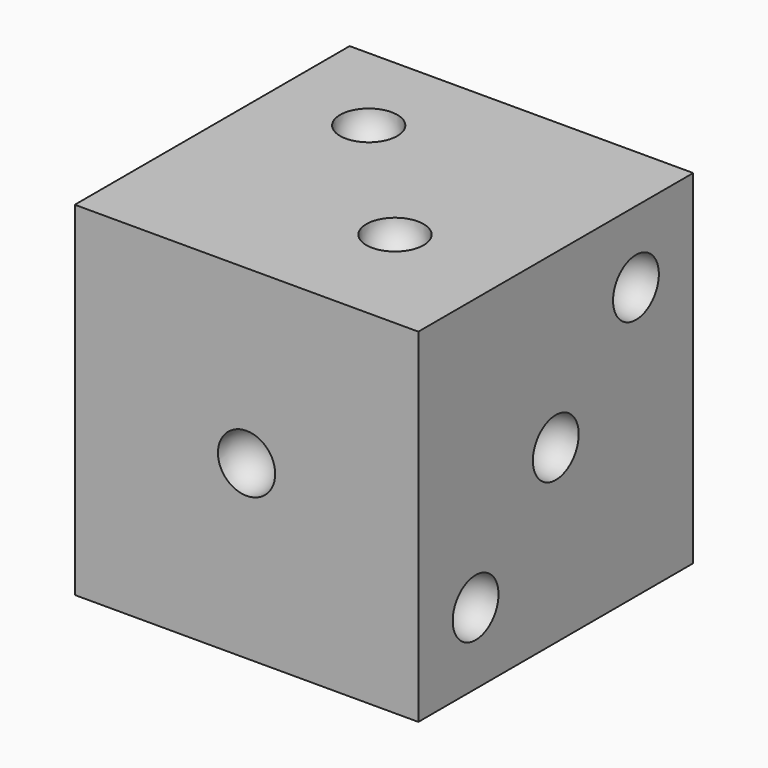
from build123d import *

# Parameters (mm, degrees)
F0_W     = 76.2
F0_H     = 76.2
F1_DEPTH = 76.2


with BuildPart() as f1:
    # F0 (on Front) → F1 (new body)
    with BuildSketch(Plane.XZ):
        with Locations((38.1, 38.1)):
            Rectangle(F0_W, F0_H)
    extrude(amount=F1_DEPTH)

    # F2 (on face) → F3 (revolve, cut)
    with BuildSketch(Plane.XZ.offset(76.2)):
        with BuildLine():
            Line((38.1, 44.45), (38.1, 31.75))
            ThreePointArc((38.1, 31.75), (44.45, 38.1), (38.1, 44.45))
        make_face()
    revolve(axis=Axis((38.1, -76.2, 38.1), (0, 0, 1)), mode=Mode.SUBTRACT)

    # F4 (on face) → F5 (revolve, cut)
    with BuildSketch(Plane.YZ.offset(76.2)):
        with BuildLine():
            ThreePointArc((-42.590128, 33.609872), (-33.609872, 33.609872), (-33.609872, 42.590128))
            Line((-33.609872, 42.590128), (-42.590128, 33.609872))
        make_face()
        with BuildLine():
            ThreePointArc((-20.365128, 55.834872), (-11.384872, 55.834872), (-11.384872, 64.815128))
            Line((-11.384872, 64.815128), (-20.365128, 55.834872))
        make_face()
        with BuildLine():
            Line((-55.834872, 20.365128), (-64.815128, 11.384872))
            ThreePointArc((-64.815128, 11.384872), (-55.834872, 11.384872), (-55.834872, 20.365128))
        make_face()
    revolve(axis=Axis((76.2, -38.1, 38.1), (0, -0.707107, -0.707107)), mode=Mode.SUBTRACT)

    # F6 (on face) → F7 (revolve, cut)
    with BuildSketch(Plane(origin=(0, 0, 0), x_dir=(-1, 0, 0), z_dir=(0, 1, 0))):
        with BuildLine():
            ThreePointArc((-55.834872, 55.834872), (-55.834872, 64.815128), (-64.815128, 64.815128))
            Line((-64.815128, 64.815128), (-55.834872, 55.834872))
        make_face()
        with BuildLine():
            Line((-33.609872, 42.590128), (-38.1, 38.1))
            Line((-38.1, 38.1), (-33.609872, 33.609872))
            ThreePointArc((-33.609872, 33.609872), (-31.75, 38.1), (-33.609872, 42.590128))
        make_face()
        with BuildLine():
            ThreePointArc((-33.609872, 42.590128), (-38.1, 44.45), (-42.590128, 42.590128))
            Line((-42.590128, 42.590128), (-38.1, 38.1))
            Line((-38.1, 38.1), (-33.609872, 42.590128))
        make_face()
        with BuildLine():
            Line((-20.365128, 20.365128), (-11.384872, 11.384872))
            ThreePointArc((-11.384872, 11.384872), (-11.384872, 20.365128), (-20.365128, 20.365128))
        make_face()
    revolve(axis=Axis((38.1, 0, 38.1), (-0.707107, 0, -0.707107)), mode=Mode.SUBTRACT)

    # F8 (on face) → F9 (revolve, cut)
    with BuildSketch(Plane(origin=(0, 0, 0), x_dir=(-1, 0, 0), z_dir=(0, 1, 0))):
        with BuildLine():
            ThreePointArc((-42.590128, 33.609872), (-33.609872, 33.609872), (-33.609872, 42.590128))
            Line((-33.609872, 42.590128), (-42.590128, 33.609872))
        make_face()
        with BuildLine():
            ThreePointArc((-20.365128, 55.834872), (-11.384872, 55.834872), (-11.384872, 64.815128))
            Line((-11.384872, 64.815128), (-20.365128, 55.834872))
        make_face()
        with BuildLine():
            ThreePointArc((-64.815128, 11.384872), (-55.834872, 11.384872), (-55.834872, 20.365128))
            Line((-55.834872, 20.365128), (-64.815128, 11.384872))
        make_face()
    revolve(axis=Axis((38.1, 0, 38.1), (0.707107, 0, -0.707107)), mode=Mode.SUBTRACT)

    # F10 (on face) → F11 (revolve, cut)
    with BuildSketch(Plane(origin=(0, 0, 0), x_dir=(0, -1, 0), z_dir=(-1, 0, 0))):
        with BuildLine():
            ThreePointArc((22.225, 53.975), (28.575, 60.325), (22.225, 66.675))
            Line((22.225, 66.675), (22.225, 53.975))
        make_face()
        with BuildLine():
            ThreePointArc((22.225, 31.75), (28.575, 38.1), (22.225, 44.45))
            Line((22.225, 44.45), (22.225, 31.75))
        make_face()
        with BuildLine():
            Line((22.225, 22.225), (22.225, 9.525))
            ThreePointArc((22.225, 9.525), (28.575, 15.875), (22.225, 22.225))
        make_face()
    revolve(axis=Axis((0, -22.225, 38.1), (0, 0, -1)), mode=Mode.SUBTRACT)

    # F12 (on face) → F13 (revolve, cut)
    with BuildSketch(Plane(origin=(0, 0, 0), x_dir=(0, -1, 0), z_dir=(-1, 0, 0))):
        with BuildLine():
            ThreePointArc((53.975, 31.75), (60.325, 38.1), (53.975, 44.45))
            Line((53.975, 44.45), (53.975, 31.75))
        make_face()
        with BuildLine():
            ThreePointArc((53.975, 53.975), (60.325, 60.325), (53.975, 66.675))
            Line((53.975, 66.675), (53.975, 53.975))
        make_face()
        with BuildLine():
            Line((53.975, 22.225), (53.975, 9.525))
            ThreePointArc((53.975, 9.525), (60.325, 15.875), (53.975, 22.225))
        make_face()
    revolve(axis=Axis((0, -53.975, 38.1), (0, 0, -1)), mode=Mode.SUBTRACT)

    # F14 (on face) → F15 (revolve, cut)
    with BuildSketch(Plane.XY.offset(76.2)):
        with BuildLine():
            ThreePointArc((25.656209, -25.656209), (25.656209, -16.675953), (16.675953, -16.675953))
            Line((16.675953, -16.675953), (25.656209, -25.656209))
        make_face()
        with BuildLine():
            ThreePointArc((54.801125, -54.801125), (54.801125, -45.820869), (45.820869, -45.820869))
            Line((45.820869, -45.820869), (54.801125, -54.801125))
        make_face()
    revolve(axis=Axis((38.1, -38.1, 76.2), (0.707107, -0.707107, 0)), mode=Mode.SUBTRACT)

    # F16 (on face) → F17 (revolve, cut)
    with BuildSketch(Plane(origin=(0, 0, 0), x_dir=(1, 0, 0), z_dir=(0, 0, -1))):
        with BuildLine():
            ThreePointArc((22.225, 48.615317), (28.575, 54.965317), (22.225, 61.315317))
            Line((22.225, 61.315317), (22.225, 48.615317))
        make_face()
        with BuildLine():
            ThreePointArc((22.225, 18.251413), (28.575, 24.601413), (22.225, 30.951413))
            Line((22.225, 30.951413), (22.225, 18.251413))
        make_face()
    revolve(axis=Axis((22.225, -38.1, 0), (0, 1, 0)), mode=Mode.SUBTRACT)

    # F16 (on face) → F18 (revolve, cut)
    with BuildSketch(Plane(origin=(0, 0, 0), x_dir=(1, 0, 0), z_dir=(0, 0, -1))):
        with BuildLine():
            ThreePointArc((53.975, 49.05859), (60.325, 55.40859), (53.975, 61.75859))
            Line((53.975, 61.75859), (53.975, 49.05859))
        make_face()
        with BuildLine():
            ThreePointArc((53.975, 17.808146), (60.325, 24.158146), (53.975, 30.508146))
            Line((53.975, 30.508146), (53.975, 17.808146))
        make_face()
    revolve(axis=Axis((53.975, -38.1, 0), (0, 1, 0)), mode=Mode.SUBTRACT)


solid = f1.part
